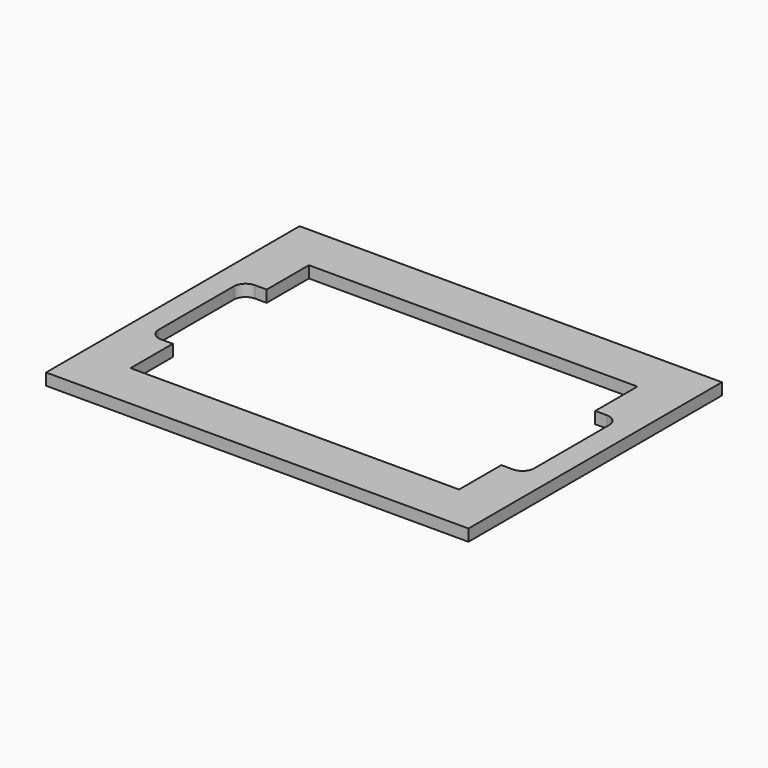
from build123d import *

# Parameters (mm, degrees)
F0_W     = 457.2
F0_H     = 342.9
F1_DEPTH = 12.7
F2_W     = 355.6
F2_H     = 241.3
F3_DEPTH = 25.4
F4_W     = 25.4
F4_H     = 127
F5_DEPTH = 25.4
F6_R     = 12.7


with BuildPart() as f1:
    # F0 (on Top) → F1 (new body)
    with BuildSketch(Plane.XY):
        with Locations((184.6840278864, 135.7329336226)):
            Rectangle(F0_W, F0_H)
    extrude(amount=F1_DEPTH)

    # F2 (on face) → F3 (cut)
    with BuildSketch(Plane.XY.offset(12.7)):
        with Locations((184.6840278864, 135.7329336226)):
            Rectangle(F2_W, F2_H)
    extrude(amount=-F3_DEPTH, mode=Mode.SUBTRACT)

    # F4 (on face) → F5 (cut)
    with BuildSketch(Plane.XY.offset(12.7)):
        with Locations((-5.8159721136, 135.7329336226)):
            Rectangle(F4_W, F4_H)
        with Locations((375.1840278864, 135.7329336226)):
            Rectangle(F4_W, F4_H)
    extrude(amount=-F5_DEPTH, mode=Mode.SUBTRACT)

    # F6
    f6_edges = [f1.edges().sort_by_distance(p)[0] for p in [
        (-18.515972, 199.232934, 6.35),
        (387.884028, 199.232934, 6.35),
        (-18.515972, 72.232934, 6.35),
        (387.884028, 72.232934, 6.35),
    ]]
    fillet(f6_edges, radius=F6_R)


solid = f1.part
